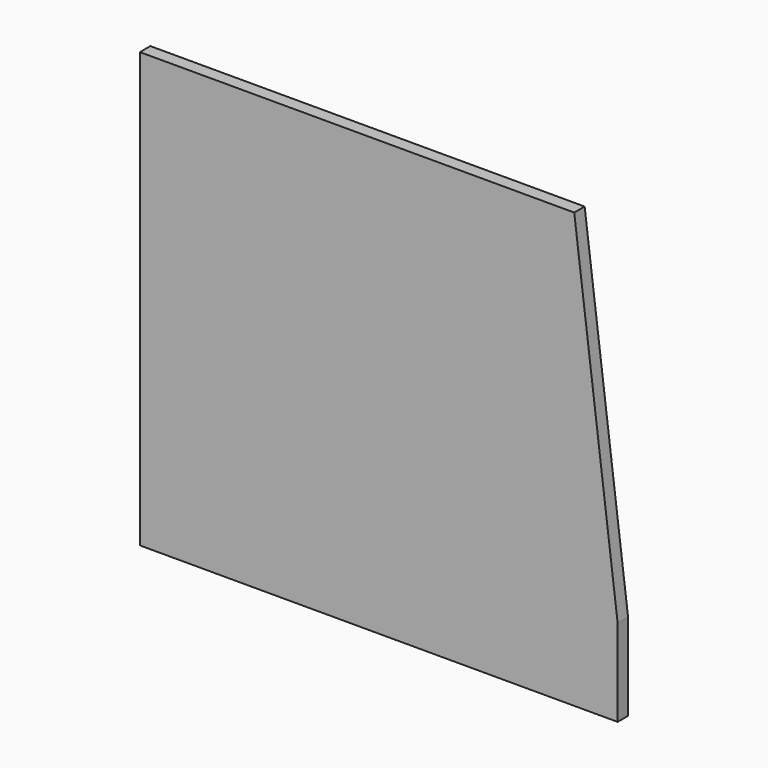
from build123d import *

# Parameters (mm, degrees)
F1_DEPTH = 18
F0_W     = 520
F0_H     = 85
F2_DEPTH = 15


with BuildPart() as f1:
    # F0 (on Front) → F1 (new body)
    with BuildSketch(Plane.XZ):
        Polygon((-260, -150), (260, -150), (211.875, 235), (-260, 235), align=None)
    extrude(amount=-F1_DEPTH)



with BuildPart() as f1b:
    # F0 (on Front) → F1, piece 2 (new body)
    with BuildSketch(Plane.XZ):
        with Locations((0, -207.5)):
            Rectangle(F0_W, F0_H)
    extrude(amount=-F1_DEPTH)


with BuildPart() as f1_1:
    add(f1.part)

    add(f1b.part)  # F2 merges F1b
    # F0 (on Front) → F2 (join)
    with BuildSketch(Plane.XZ):
        Polygon((275, -150), (225, 250), (-275, 250), (-275, -250), (-260, -250), (-260, -165), (260, -165), (260, -250), (275, -250), align=None)
        Polygon((211.875, 235), (260, -150), (-260, -150), (-260, 235), align=None, mode=Mode.SUBTRACT)
    extrude(amount=-F2_DEPTH)


solid = f1_1.part
